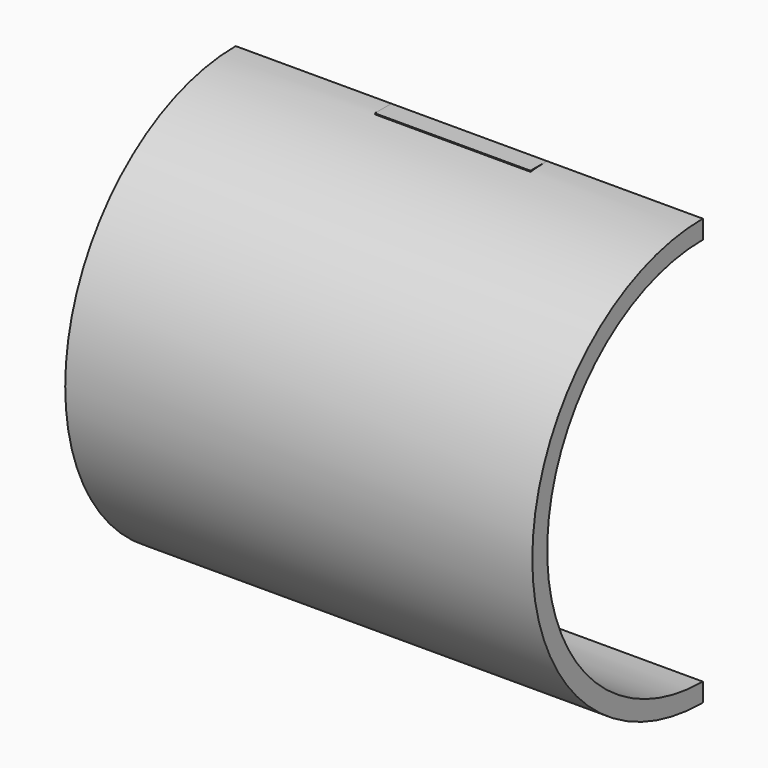
from build123d import *

# Parameters (mm, degrees)
F0_W     = 57.15
F0_H     = 2.276891
F1_ANGLE = 180
F2_W     = 19.05
F2_H     = 52.140836
F2_R     = 2.943
F3_DEPTH = 2.54


with BuildPart() as f1:
    # F0 (on Front) → F1 (revolve)
    with BuildSketch(Plane.XZ):
        with Locations((12.750597, 24.931973)):
            Rectangle(F0_W, F0_H)
    revolve(axis=Axis((12.864442, 0, 0), (1, 0, 0)), revolution_arc=F1_ANGLE)

    # F2 (on Front) → F3 (join)
    with BuildSketch(Plane.XZ):
        with Locations((12.750597, 0)):
            Rectangle(F2_W, F2_H)
        with Locations((12.750597, 0)):
            Circle(F2_R, mode=Mode.SUBTRACT)
    extrude(amount=F3_DEPTH)


solid = f1.part
